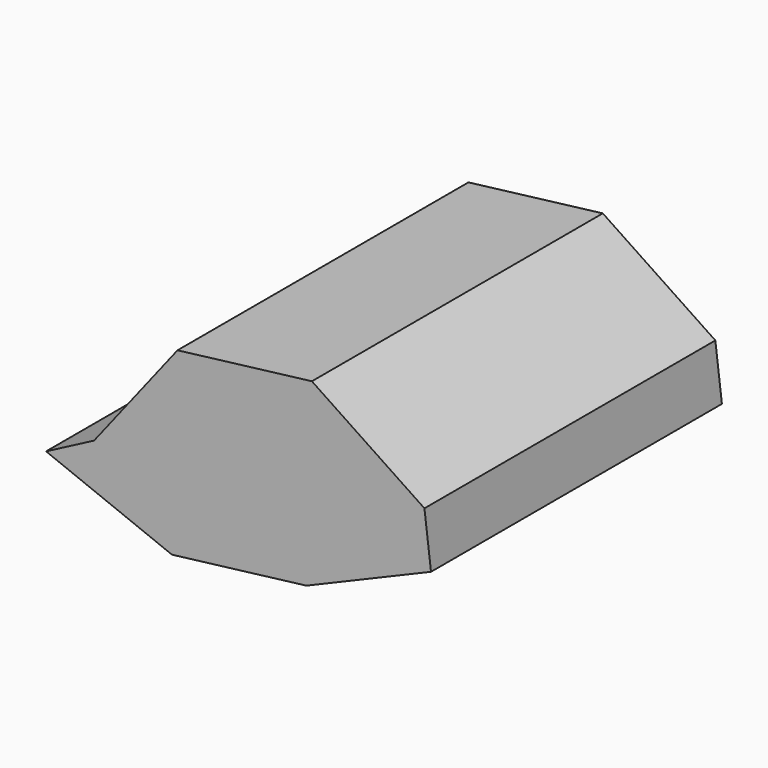
from build123d import *

# Parameters (mm, degrees)
F1_DEPTH = 470
F2_T     = -20


with BuildPart() as f1:
    # F0 (on Front) → F1 (new body)
    with BuildSketch(Plane.XZ):
        Polygon((324.704266728, 100.1464468348), (179.2329066404, 197.4248277539), (5.5254367755, 176.1947803416), (-102.2923826187, 38.3531399673), (-164.3291493471, 5.9272309764), (-1.7013809348, -58.7040999804), (172.0060889301, -37.4740525682), (333.1962856929, 30.6634588888), align=None)
    extrude(amount=F1_DEPTH)

    # F2
    f2_openings = [f1.faces().sort_by_distance(p)[0] for p in [
        (103.387113, 0, 63.431014),
    ]]
    offset(amount=F2_T, openings=f2_openings, kind=Kind.INTERSECTION)


solid = f1.part
